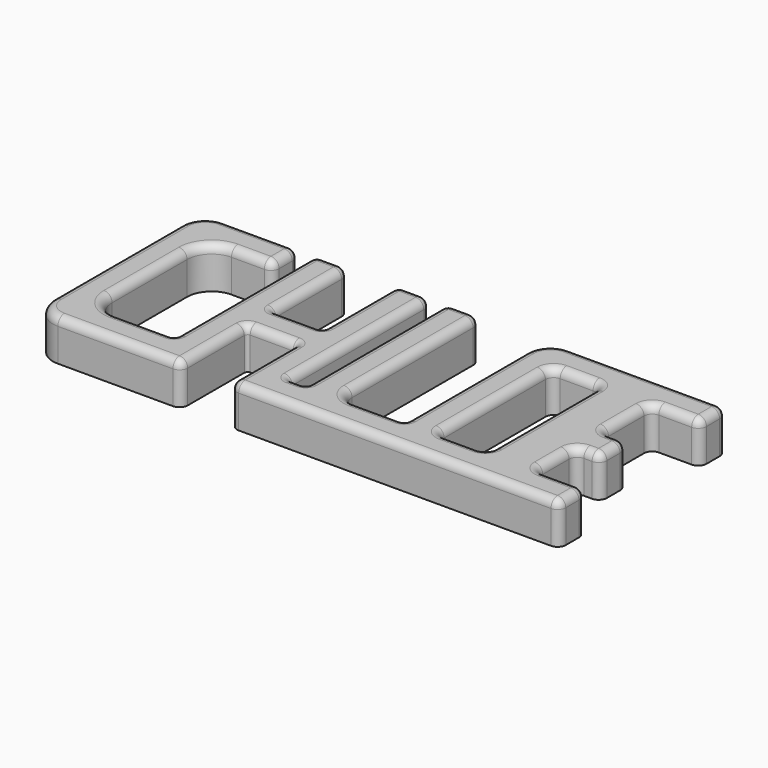
from build123d import *

# Parameters (mm, degrees)
F0_W     = 6
F0_H     = 17.4
F1_DEPTH = 5
F2_R     = 1
F3_R     = 2
F4_R     = 1
F5_R     = 0.4
F6_R     = 3
F7_R     = 1


with BuildPart() as f1:
    # F0 (on Top) → F1 (new body)
    with BuildSketch(Plane.XY):
        Polygon((0, 25.4), (0, 0), (18, 0), (18, 10), (24, 10), (24, 0), (64, 0), (64, 4), (58, 4), (58, 10), (61, 10), (61, 14), (58, 14), (58, 21.4), (64, 21.4), (64, 25.4), (42, 25.4), (42, 4), (34, 4), (34, 25.4), (30, 25.4), (30, 4), (28, 4), (28, 25.4), (24, 25.4), (24, 14), (18, 14), (18, 25.4), (14, 25.4), (14, 4), (4, 4), (4, 21.4), (12, 21.4), (12, 25.4), align=None)
        with Locations((49, 12.7)):
            Rectangle(F0_W, F0_H, mode=Mode.SUBTRACT)
    extrude(amount=F1_DEPTH)

    # F2
    f2_edges = [f1.edges().sort_by_distance(p)[0] for p in [
        (12, 25.4, 2.5),
        (12, 21.4, 2.5),
        (14, 25.4, 2.5),
        (18, 25.4, 2.5),
        (24, 25.4, 2.5),
        (28, 25.4, 2.5),
        (30, 25.4, 2.5),
        (34, 25.4, 2.5),
        (64, 25.4, 2.5),
        (64, 21.4, 2.5),
        (61, 14, 2.5),
        (61, 10, 2.5),
        (64, 4, 2.5),
        (64, 0, 2.5),
        (18, 0, 2.5),
        (24, 0, 2.5),
        (46, 21.4, 2.5),
        (52, 21.4, 2.5),
        (52, 4, 2.5),
        (46, 4, 2.5),
    ]]
    fillet(f2_edges, radius=F2_R)

    # F3
    f3_edges = [f1.edges().sort_by_distance(p)[0] for p in [
        (34, 4, 2.5),
    ]]
    fillet(f3_edges, radius=F3_R)

    # F4
    f4_edges = [f1.edges().sort_by_distance(p)[0] for p in [
        (58, 21.4, 2.5),
        (58, 14, 2.5),
        (58, 10, 2.5),
        (58, 4, 2.5),
    ]]
    fillet(f4_edges, radius=F4_R)

    # F5
    f5_edges = [f1.edges().sort_by_distance(p)[0] for p in [
        (18, 14, 2.5),
        (24, 14, 2.5),
        (24, 10, 2.5),
        (18, 10, 2.5),
        (28, 4, 2.5),
        (30, 4, 2.5),
        (42, 4, 2.5),
        (14, 4, 2.5),
    ]]
    fillet(f5_edges, radius=F5_R)

    # F6
    f6_edges = [f1.edges().sort_by_distance(p)[0] for p in [
        (4, 21.4, 2.5),
        (4, 4, 2.5),
        (0, 25.4, 2.5),
        (0, 0, 2.5),
        (42, 25.4, 2.5),
    ]]
    fillet(f6_edges, radius=F6_R)

    # F7
    f7_edges = [f1.edges().sort_by_distance(p)[0] for p in [
        (42, 13.4, 5),
        (42.87868, 24.52132, 5),
        (41.882843, 4.117157, 5),
        (54, 25.4, 5),
        (38.8, 4, 5),
        (63.707107, 25.107107, 5),
        (34.585786, 4.585786, 5),
        (64, 23.4, 5),
        (34, 15.2, 5),
        (63.707107, 21.692893, 5),
        (33.707107, 25.107107, 5),
        (61, 21.4, 5),
        (32, 25.4, 5),
        (58.292893, 21.107107, 5),
        (30.292893, 25.107107, 5),
        (58, 17.7, 5),
        (30, 14.4, 5),
        (58.292893, 14.292893, 5),
        (29.882843, 4.117157, 5),
        (59.5, 14, 5),
        (29, 4, 5),
        (60.707107, 13.707107, 5),
        (28.117157, 4.117157, 5),
        (61, 12, 5),
        (28, 14.4, 5),
        (60.707107, 10.292893, 5),
        (27.707107, 25.107107, 5),
        (59.5, 10, 5),
        (26, 25.4, 5),
        (58.292893, 9.707107, 5),
        (24.292893, 25.107107, 5),
        (58, 7, 5),
        (24, 19.4, 5),
        (58.292893, 4.292893, 5),
        (23.882843, 14.117157, 5),
        (61, 4, 5),
        (21, 14, 5),
        (63.707107, 3.707107, 5),
        (18.117157, 14.117157, 5),
        (64, 2, 5),
        (18, 19.4, 5),
        (63.707107, 0.292893, 5),
        (17.707107, 25.107107, 5),
        (44, 0, 5),
        (16, 25.4, 5),
        (24.292893, 0.292893, 5),
        (14.292893, 25.107107, 5),
        (24, 5.3, 5),
        (14, 14.4, 5),
        (23.882843, 9.882843, 5),
        (13.882843, 4.117157, 5),
        (21, 10, 5),
        (10.3, 4, 5),
        (18.117157, 9.882843, 5),
        (4.87868, 4.87868, 5),
        (18, 5.3, 5),
        (4, 12.7, 5),
        (17.707107, 0.292893, 5),
        (4.87868, 20.52132, 5),
        (10, 0, 5),
        (9, 21.4, 5),
        (0.87868, 0.87868, 5),
        (11.707107, 21.692893, 5),
        (0, 12.7, 5),
        (12, 23.4, 5),
        (0.87868, 24.52132, 5),
        (11.707107, 25.107107, 5),
        (7, 25.4, 5),
        (46, 12.7, 5),
        (46.292893, 4.292893, 5),
        (46.292893, 21.107107, 5),
        (49, 4, 5),
        (49, 21.4, 5),
        (51.707107, 4.292893, 5),
        (51.707107, 21.107107, 5),
        (52, 12.7, 5),
    ]]
    fillet(f7_edges, radius=F7_R)


solid = f1.part
